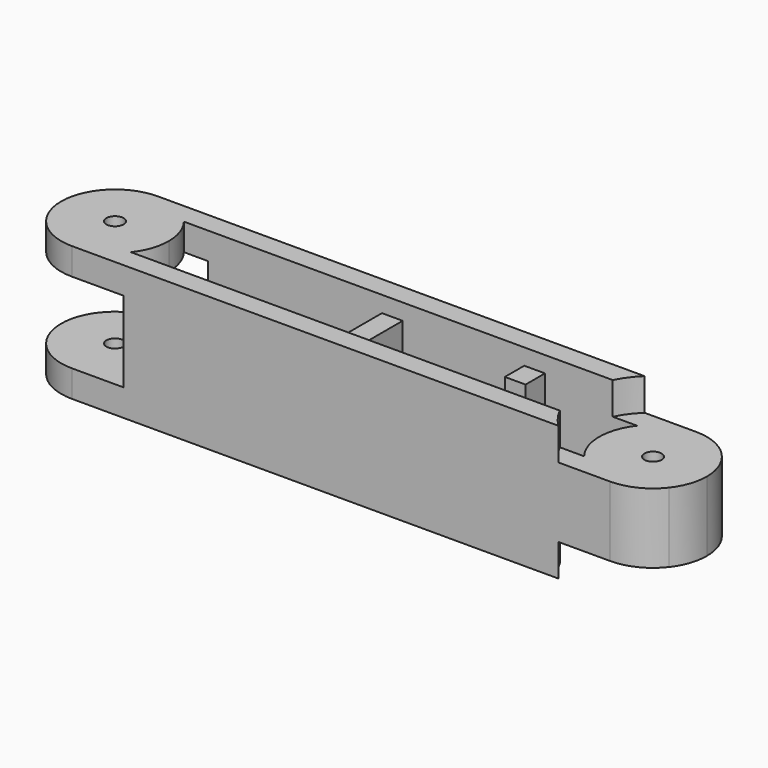
from build123d import *

# Parameters (mm, degrees)
F0_R      = 1.6
F0_W      = 3.85
F0_H      = 12.3
F1_DEPTH  = 25
F2_W      = 3.85
F2_H      = 12.3
F3_DEPTH  = 3
F4_W      = 3.85
F4_H      = 12.3
F5_DEPTH  = 3
F7_START  = 19
F7_DEPTH  = 6
F8_DEPTH  = 6
F9_START  = 5
F9_DEPTH  = 15
F10_W     = 5
F10_H     = 10
F11_DEPTH = 2.5
F13_W     = 6.0873482585
F13_H     = 3.2788594067
F14_DEPTH = 25


with BuildPart() as f1:
    # F0 (on Top) → F1 (new body)
    with BuildSketch(Plane.XY):
        with BuildLine():
            Line((3.9944505033, 40.91431804), (-76.8407379923, 40.91431804))
            ThreePointArc((-76.8407379923, 40.91431804), (-75.2598774633, 39.1121217664), (-74.0134700985, 37.06431804))
            Line((-74.0134700985, 37.06431804), (-41.7231437445, 37.06431804))
            Line((-41.7231437445, 37.06431804), (-37.8731437445, 37.06431804))
            Line((-37.8731437445, 37.06431804), (-15.2731437445, 37.06431804))
            Line((-15.2731437445, 37.06431804), (-11.4231437445, 37.06431804))
            Line((-11.4231437445, 37.06431804), (1.1671826095, 37.06431804))
            ThreePointArc((1.1671826095, 37.06431804), (2.4135899744, 39.1121217664), (3.9944505033, 40.91431804))
        make_face()
        with BuildLine():
            Line((-76.8407379923, 40.91431804), (-86.4231437445, 40.91431804))
            ThreePointArc((-86.4231437445, 40.91431804), (-82.0356615508, 39.9004184178), (-78.5378726648, 37.06431804))
            Line((-78.5378726648, 37.06431804), (-74.0134700985, 37.06431804))
            ThreePointArc((-74.0134700985, 37.06431804), (-75.2598774633, 39.1121217664), (-76.8407379923, 40.91431804))
        make_face()
        with BuildLine():
            ThreePointArc((-78.5378726648, 37.06431804), (-82.0356615508, 39.9004184178), (-86.4231437445, 40.91431804))
            ThreePointArc((-86.4231437445, 40.91431804), (-90.8106259382, 39.9004184178), (-94.3084148241, 37.06431804))
            Line((-94.3084148241, 37.06431804), (-78.5378726648, 37.06431804))
        make_face()
        with BuildLine():
            ThreePointArc((-76.4231437445, 30.91431804), (-76.9665928194, 34.1660321421), (-78.5378726648, 37.06431804))
            Line((-78.5378726648, 37.06431804), (-94.3084148241, 37.06431804))
            ThreePointArc((-94.3084148241, 37.06431804), (-95.8796946695, 34.1660321421), (-96.4231437445, 30.91431804))
            ThreePointArc((-96.4231437445, 30.91431804), (-95.8796946695, 27.6626039379), (-94.3084148241, 24.76431804))
            Line((-94.3084148241, 24.76431804), (-78.5378726648, 24.76431804))
            ThreePointArc((-78.5378726648, 24.76431804), (-76.9665928194, 27.6626039379), (-76.4231437445, 30.91431804))
        make_face()
        with Locations((-86.4231437445, 30.91431804)):
            Circle(F0_R, mode=Mode.SUBTRACT)
        with BuildLine():
            ThreePointArc((-78.5378726648, 24.76431804), (-82.0356615508, 21.9282176622), (-86.4231437445, 20.91431804))
            Line((-86.4231437445, 20.91431804), (-76.8407379923, 20.91431804))
            ThreePointArc((-76.8407379923, 20.91431804), (-75.2598774633, 22.7165143137), (-74.0134700985, 24.76431804))
            Line((-74.0134700985, 24.76431804), (-78.5378726648, 24.76431804))
        make_face()
        with BuildLine():
            Line((-78.5378726648, 24.76431804), (-94.3084148241, 24.76431804))
            ThreePointArc((-94.3084148241, 24.76431804), (-90.8106259382, 21.9282176622), (-86.4231437445, 20.91431804))
            ThreePointArc((-86.4231437445, 20.91431804), (-82.0356615508, 21.9282176622), (-78.5378726648, 24.76431804))
        make_face()
        with BuildLine():
            ThreePointArc((-74.0134700985, 24.76431804), (-75.2598774633, 22.7165143137), (-76.8407379923, 20.91431804))
            Line((-76.8407379923, 20.91431804), (3.9944505033, 20.91431804))
            ThreePointArc((3.9944505033, 20.91431804), (2.4135899744, 22.7165143137), (1.1671826095, 24.76431804))
            Line((1.1671826095, 24.76431804), (-11.4231437445, 24.76431804))
            Line((-11.4231437445, 24.76431804), (-15.2731437445, 24.76431804))
            Line((-15.2731437445, 24.76431804), (-37.8731437445, 24.76431804))
            Line((-37.8731437445, 24.76431804), (-41.7231437445, 24.76431804))
            Line((-41.7231437445, 24.76431804), (-74.0134700985, 24.76431804))
        make_face()
        with Locations((-39.7981437445, 30.91431804)):
            Rectangle(F0_W, F0_H)
        with Locations((-13.3481437445, 30.91431804)):
            Rectangle(F0_W, F0_H)
        with BuildLine():
            ThreePointArc((23.5768562555, 30.91431804), (23.0334071806, 34.1660321421), (21.4621273352, 37.06431804))
            Line((21.4621273352, 37.06431804), (5.6915851759, 37.06431804))
            ThreePointArc((5.6915851759, 37.06431804), (3.5768562555, 30.91431804), (5.6915851759, 24.76431804))
            Line((5.6915851759, 24.76431804), (21.4621273352, 24.76431804))
            ThreePointArc((21.4621273352, 24.76431804), (23.0334071806, 27.6626039379), (23.5768562555, 30.91431804))
        make_face()
        with Locations((13.5768562555, 30.91431804)):
            Circle(F0_R, mode=Mode.SUBTRACT)
        with BuildLine():
            ThreePointArc((21.4621273352, 37.06431804), (17.9643384401, 39.9004184223), (13.5768562351, 40.91431804))
            ThreePointArc((13.5768562351, 40.91431804), (9.1893740527, 39.9004184133), (5.6915851759, 37.06431804))
            Line((5.6915851759, 37.06431804), (21.4621273352, 37.06431804))
        make_face()
        with BuildLine():
            Line((13.5768562351, 40.91431804), (3.9944505033, 40.91431804))
            ThreePointArc((3.9944505033, 40.91431804), (2.4135899744, 39.1121217664), (1.1671826095, 37.06431804))
            Line((1.1671826095, 37.06431804), (5.6915851759, 37.06431804))
            ThreePointArc((5.6915851759, 37.06431804), (9.1893740527, 39.9004184133), (13.5768562351, 40.91431804))
        make_face()
        with BuildLine():
            Line((21.4621273352, 24.76431804), (5.6915851759, 24.76431804))
            ThreePointArc((5.6915851759, 24.76431804), (9.1893740469, 21.9282176695), (13.5768562222, 20.91431804))
            ThreePointArc((13.5768562222, 20.91431804), (17.9643384343, 21.9282176549), (21.4621273352, 24.76431804))
        make_face()
        with BuildLine():
            Line((5.6915851759, 24.76431804), (1.1671826095, 24.76431804))
            ThreePointArc((1.1671826095, 24.76431804), (2.4135899744, 22.7165143137), (3.9944505033, 20.91431804))
            Line((3.9944505033, 20.91431804), (13.5768562222, 20.91431804))
            ThreePointArc((13.5768562222, 20.91431804), (9.1893740469, 21.9282176695), (5.6915851759, 24.76431804))
        make_face()
    extrude(amount=F1_DEPTH)

    # F2 (on face) → F3 (cut)
    with BuildSketch(Plane.XY.offset(25)):
        with Locations((-39.7981437445, 30.91431804)):
            Rectangle(F2_W, F2_H)
        with Locations((-13.3481437445, 30.91431804)):
            Rectangle(F2_W, F2_H)
    extrude(amount=-F3_DEPTH, mode=Mode.SUBTRACT)

    # F4 (on face) → F5 (cut)
    with BuildSketch(Plane(origin=(0, 0, 0), x_dir=(1, 0, 0), z_dir=(0, 0, -1))):
        with Locations((-13.3481437445, -30.91431804)):
            Rectangle(F4_W, F4_H)
        with Locations((-39.7981437445, -30.91431804)):
            Rectangle(F4_W, F4_H)
    extrude(amount=-F5_DEPTH, mode=Mode.SUBTRACT)

    # F0 (on Top) → F7 (cut)
    with BuildSketch(Plane.XY.offset(F7_START)):
        with BuildLine():
            Line((21.4621273352, 24.76431804), (5.6915851759, 24.76431804))
            ThreePointArc((5.6915851759, 24.76431804), (9.1893740469, 21.9282176695), (13.5768562222, 20.91431804))
            ThreePointArc((13.5768562222, 20.91431804), (17.9643384343, 21.9282176549), (21.4621273352, 24.76431804))
        make_face()
        with BuildLine():
            ThreePointArc((23.5768562555, 30.91431804), (23.0334071806, 34.1660321421), (21.4621273352, 37.06431804))
            Line((21.4621273352, 37.06431804), (5.6915851759, 37.06431804))
            ThreePointArc((5.6915851759, 37.06431804), (3.5768562555, 30.91431804), (5.6915851759, 24.76431804))
            Line((5.6915851759, 24.76431804), (21.4621273352, 24.76431804))
            ThreePointArc((21.4621273352, 24.76431804), (23.0334071806, 27.6626039379), (23.5768562555, 30.91431804))
        make_face()
        with Locations((13.5768562555, 30.91431804)):
            Circle(F0_R, mode=Mode.SUBTRACT)
        with BuildLine():
            ThreePointArc((21.4621273352, 37.06431804), (17.9643384401, 39.9004184223), (13.5768562351, 40.91431804))
            ThreePointArc((13.5768562351, 40.91431804), (9.1893740527, 39.9004184133), (5.6915851759, 37.06431804))
            Line((5.6915851759, 37.06431804), (21.4621273352, 37.06431804))
        make_face()
        with BuildLine():
            Line((13.5768562351, 40.91431804), (3.9944505033, 40.91431804))
            ThreePointArc((3.9944505033, 40.91431804), (2.4135899744, 39.1121217664), (1.1671826095, 37.06431804))
            Line((1.1671826095, 37.06431804), (5.6915851759, 37.06431804))
            ThreePointArc((5.6915851759, 37.06431804), (9.1893740527, 39.9004184133), (13.5768562351, 40.91431804))
        make_face()
        with BuildLine():
            Line((5.6915851759, 24.76431804), (1.1671826095, 24.76431804))
            ThreePointArc((1.1671826095, 24.76431804), (2.4135899744, 22.7165143137), (3.9944505033, 20.91431804))
            Line((3.9944505033, 20.91431804), (13.5768562222, 20.91431804))
            ThreePointArc((13.5768562222, 20.91431804), (9.1893740469, 21.9282176695), (5.6915851759, 24.76431804))
        make_face()
    extrude(amount=F7_DEPTH, mode=Mode.SUBTRACT)

    # F0 (on Top) → F8 (cut)
    with BuildSketch(Plane.XY):
        with BuildLine():
            ThreePointArc((23.5768562555, 30.91431804), (23.0334071806, 34.1660321421), (21.4621273352, 37.06431804))
            Line((21.4621273352, 37.06431804), (5.6915851759, 37.06431804))
            ThreePointArc((5.6915851759, 37.06431804), (3.5768562555, 30.91431804), (5.6915851759, 24.76431804))
            Line((5.6915851759, 24.76431804), (21.4621273352, 24.76431804))
            ThreePointArc((21.4621273352, 24.76431804), (23.0334071806, 27.6626039379), (23.5768562555, 30.91431804))
        make_face()
        with Locations((13.5768562555, 30.91431804)):
            Circle(F0_R, mode=Mode.SUBTRACT)
        with BuildLine():
            Line((13.5768562351, 40.91431804), (3.9944505033, 40.91431804))
            ThreePointArc((3.9944505033, 40.91431804), (2.4135899744, 39.1121217664), (1.1671826095, 37.06431804))
            Line((1.1671826095, 37.06431804), (5.6915851759, 37.06431804))
            ThreePointArc((5.6915851759, 37.06431804), (9.1893740527, 39.9004184133), (13.5768562351, 40.91431804))
        make_face()
        with BuildLine():
            Line((5.6915851759, 24.76431804), (1.1671826095, 24.76431804))
            ThreePointArc((1.1671826095, 24.76431804), (2.4135899744, 22.7165143137), (3.9944505033, 20.91431804))
            Line((3.9944505033, 20.91431804), (13.5768562222, 20.91431804))
            ThreePointArc((13.5768562222, 20.91431804), (9.1893740469, 21.9282176695), (5.6915851759, 24.76431804))
        make_face()
        with BuildLine():
            Line((21.4621273352, 24.76431804), (5.6915851759, 24.76431804))
            ThreePointArc((5.6915851759, 24.76431804), (9.1893740469, 21.9282176695), (13.5768562222, 20.91431804))
            ThreePointArc((13.5768562222, 20.91431804), (17.9643384343, 21.9282176549), (21.4621273352, 24.76431804))
        make_face()
        with BuildLine():
            ThreePointArc((21.4621273352, 37.06431804), (17.9643384401, 39.9004184223), (13.5768562351, 40.91431804))
            ThreePointArc((13.5768562351, 40.91431804), (9.1893740527, 39.9004184133), (5.6915851759, 37.06431804))
            Line((5.6915851759, 37.06431804), (21.4621273352, 37.06431804))
        make_face()
    extrude(amount=F8_DEPTH, mode=Mode.SUBTRACT)

    # F0 (on Top) → F9 (cut)
    with BuildSketch(Plane.XY.offset(F9_START)):
        with BuildLine():
            ThreePointArc((-76.4231437445, 30.91431804), (-76.9665928194, 34.1660321421), (-78.5378726648, 37.06431804))
            Line((-78.5378726648, 37.06431804), (-94.3084148241, 37.06431804))
            ThreePointArc((-94.3084148241, 37.06431804), (-95.8796946695, 34.1660321421), (-96.4231437445, 30.91431804))
            ThreePointArc((-96.4231437445, 30.91431804), (-95.8796946695, 27.6626039379), (-94.3084148241, 24.76431804))
            Line((-94.3084148241, 24.76431804), (-78.5378726648, 24.76431804))
            ThreePointArc((-78.5378726648, 24.76431804), (-76.9665928194, 27.6626039379), (-76.4231437445, 30.91431804))
        make_face()
        with Locations((-86.4231437445, 30.91431804)):
            Circle(F0_R, mode=Mode.SUBTRACT)
        with BuildLine():
            Line((-78.5378726648, 24.76431804), (-94.3084148241, 24.76431804))
            ThreePointArc((-94.3084148241, 24.76431804), (-90.8106259382, 21.9282176622), (-86.4231437445, 20.91431804))
            ThreePointArc((-86.4231437445, 20.91431804), (-82.0356615508, 21.9282176622), (-78.5378726648, 24.76431804))
        make_face()
        with BuildLine():
            ThreePointArc((-78.5378726648, 37.06431804), (-82.0356615508, 39.9004184178), (-86.4231437445, 40.91431804))
            ThreePointArc((-86.4231437445, 40.91431804), (-90.8106259382, 39.9004184178), (-94.3084148241, 37.06431804))
            Line((-94.3084148241, 37.06431804), (-78.5378726648, 37.06431804))
        make_face()
        with BuildLine():
            Line((-76.8407379923, 40.91431804), (-86.4231437445, 40.91431804))
            ThreePointArc((-86.4231437445, 40.91431804), (-82.0356615508, 39.9004184178), (-78.5378726648, 37.06431804))
            Line((-78.5378726648, 37.06431804), (-74.0134700985, 37.06431804))
            ThreePointArc((-74.0134700985, 37.06431804), (-75.2598774633, 39.1121217664), (-76.8407379923, 40.91431804))
        make_face()
        with BuildLine():
            ThreePointArc((-78.5378726648, 24.76431804), (-82.0356615508, 21.9282176622), (-86.4231437445, 20.91431804))
            Line((-86.4231437445, 20.91431804), (-76.8407379923, 20.91431804))
            ThreePointArc((-76.8407379923, 20.91431804), (-75.2598774633, 22.7165143137), (-74.0134700985, 24.76431804))
            Line((-74.0134700985, 24.76431804), (-78.5378726648, 24.76431804))
        make_face()
    extrude(amount=F9_DEPTH, mode=Mode.SUBTRACT)

    # F10 (on face) → F11 (cut)
    with BuildSketch(Plane.XY):
        with Locations((-86.4231437445, 30.91431804)):
            Rectangle(F10_W, F10_H)
    extrude(amount=F11_DEPTH, mode=Mode.SUBTRACT)

    # F13 (on face) → F14 (cut)
    with BuildSketch(Plane.XY.offset(22)):
        with Locations((-13.3481437445, 30.91431804)):
            Rectangle(F13_W, F13_H)
    extrude(amount=-F14_DEPTH, mode=Mode.SUBTRACT)


solid = f1.part
